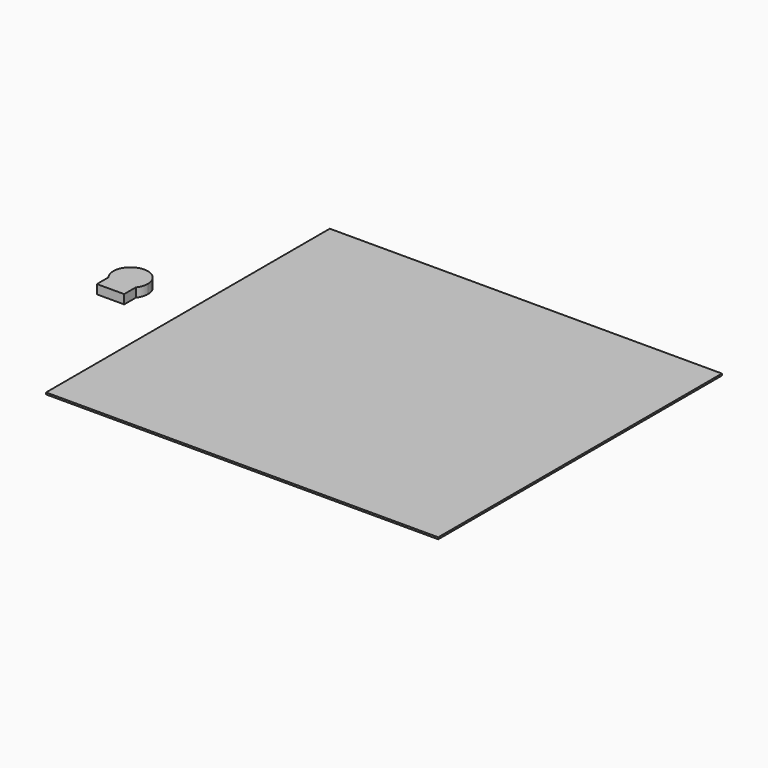
from build123d import *

# Parameters (mm, degrees)
F1_DEPTH = 5
F2_W     = 215.9
F2_H     = 195.2248938816
F3_DEPTH = 1


with BuildPart() as f1:
    # F0 (on Top) → F1 (new body)
    with BuildSketch(Plane.XY):
        with BuildLine():
            ThreePointArc((-41.5502086074, 10.0596904365), (-40.0641082296, 12.8084353299), (-39.5502086074, 15.8906423313))
            ThreePointArc((-39.5502086074, 15.8906423313), (-52.1324156089, 24.8767427091), (-56.5502086074, 10.0596904365))
            Line((-56.5502086074, 10.0596904365), (-41.5502086074, 10.0596904365))
        make_face()
        with BuildLine():
            Line((-41.5502086074, 10.0596904365), (-56.5502086074, 10.0596904365))
            ThreePointArc((-56.5502086074, 10.0596904365), (-49.0502086074, 6.3906423313), (-41.5502086074, 10.0596904365))
        make_face()
        with BuildLine():
            ThreePointArc((-41.5502086074, 10.0596904365), (-49.0502086074, 6.3906423313), (-56.5502086074, 10.0596904365))
            Line((-56.5502086074, 10.0596904365), (-56.5502086074, 2.0596904365))
            Line((-56.5502086074, 2.0596904365), (-41.5502086074, 2.0596904365))
            Line((-41.5502086074, 2.0596904365), (-41.5502086074, 10.0596904365))
        make_face()
    extrude(amount=F1_DEPTH)


with BuildPart() as f3:
    # F2 (on Top) → F3 (new body)
    with BuildSketch(Plane.XY):
        with Locations((92.5600202754, 13.2428300567)):
            Rectangle(F2_W, F2_H)
    extrude(amount=F3_DEPTH)


solid = Compound([f1.part, f3.part])
